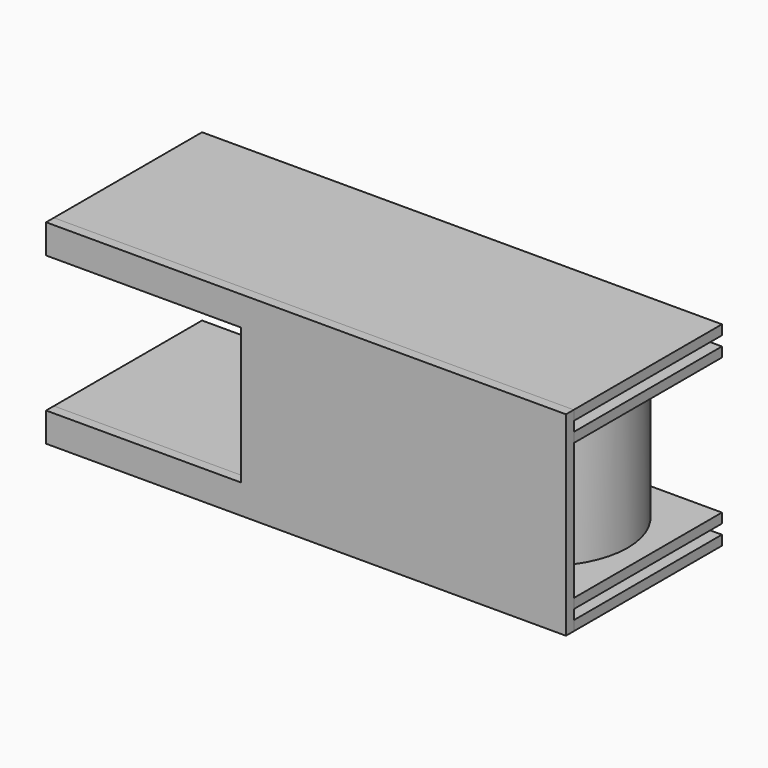
from build123d import *

# Parameters (mm, degrees)
F3_R           = 25
F12_DEPTH      = 50
F9_W           = 160
F9_H           = 60
F13_DEPTH      = 3
F7_W           = 54
F7_H           = 3
F7_W_2         = 3
F14_DEPTH      = 100
F14_DEPTH_BACK = 60
F15_DEPTH      = 100
F15_DEPTH_BACK = 60
F16_DEPTH      = 100
F16_DEPTH_BACK = 60
F11_W          = 60
F11_H          = 9
F17_DEPTH      = 3


with BuildPart() as f12:
    # F3 (on Top) → F12 (new body)
    with BuildSketch(Plane.XY):
        with Locations((100, 0)):
            Circle(F3_R)
    extrude(amount=-F12_DEPTH)


with BuildPart() as f13:
    # F9 (on Top) → F13 (new body)
    with BuildSketch(Plane.XY):
        with Locations((50, 0)):
            Rectangle(F9_W, F9_H)
    extrude(amount=-F13_DEPTH)


with BuildPart() as f14:
    # F7 (on line) → F14 (new body, two sides)
    with BuildSketch(Plane.YZ.offset(30)) as f14_sk:
        with Locations((0, -7.5)):
            Rectangle(F7_W, F7_H)
        with Locations((28.5, -7.5)):
            Rectangle(F7_W_2, F7_H)
        with Locations((-28.5, -7.5)):
            Rectangle(F7_W_2, F7_H)
    extrude(amount=F14_DEPTH)
    extrude(f14_sk.sketch, amount=-F14_DEPTH_BACK)


with BuildPart() as f15:
    # F7 (on line) → F15 (new body, two sides)
    with BuildSketch(Plane.YZ.offset(30)) as f15_sk:
        with Locations((0, -52.5)):
            Rectangle(F7_W, F7_H)
        with Locations((28.5, -52.5)):
            Rectangle(F7_W_2, F7_H)
        with Locations((-28.5, -52.5)):
            Rectangle(F7_W_2, F7_H)
    extrude(amount=F15_DEPTH)
    extrude(f15_sk.sketch, amount=-F15_DEPTH_BACK)


with BuildPart() as f16:
    # F7 (on line) → F16 (new body, two sides)
    with BuildSketch(Plane.YZ.offset(30)) as f16_sk:
        with Locations((0, -58.5)):
            Rectangle(F7_W, F7_H)
        with Locations((28.5, -58.5)):
            Rectangle(F7_W_2, F7_H)
        with Locations((-28.5, -58.5)):
            Rectangle(F7_W_2, F7_H)
    extrude(amount=F16_DEPTH)
    extrude(f16_sk.sketch, amount=-F16_DEPTH_BACK)


with BuildPart() as f17:
    # F11 (on line) → F17 (new body)
    with BuildSketch(Plane(origin=(0, -30, 0), x_dir=(-1, 0, 0), z_dir=(0, 1, 0))):
        Polygon((-30, -9), (-30, 0), (-130, 0), (-130, -60), (-30, -60), (-30, -51), align=None)
        with Locations((0, -4.5)):
            Rectangle(F11_W, F11_H)
        with Locations((0, -55.5)):
            Rectangle(F11_W, F11_H)
    extrude(amount=F17_DEPTH)


solid = Compound([f12.part, f13.part, f14.part, f15.part, f16.part, f17.part])
